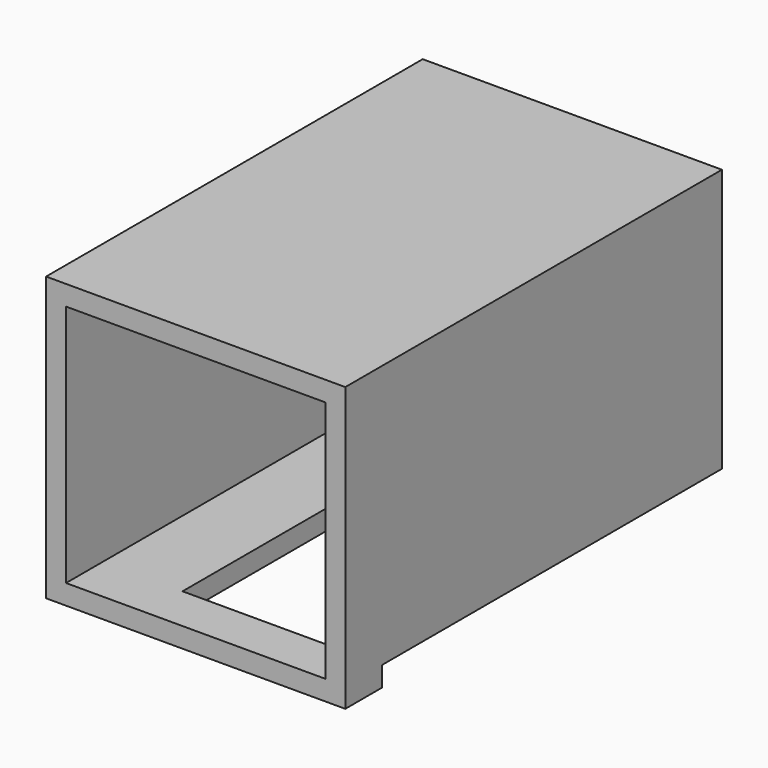
from build123d import *

# Parameters (mm, degrees)
F1_W     = 1500
F1_H     = 1420
F1_W_2   = 1300
F1_H_2   = 1220
F2_DEPTH = 2360
F3_W     = 1000
F3_H     = 2130
F0_DEPTH = 100


with BuildPart() as f2:
    # F1 (on Front) → F2 (new body)
    with BuildSketch(Plane.XZ):
        with Locations((650, 610)):
            Rectangle(F1_W, F1_H)
        with Locations((650, 610)):
            Rectangle(F1_W_2, F1_H_2, mode=Mode.SUBTRACT)
    extrude(amount=F2_DEPTH)

    # F3 (on face) → F0 (cut)
    with BuildSketch(Plane(origin=(0, 0, -100), x_dir=(1, 0, 0), z_dir=(0, 0, -1))):
        with Locations((900, 1065)):
            Rectangle(F3_W, F3_H)
    extrude(amount=-F0_DEPTH, mode=Mode.SUBTRACT)


solid = f2.part
